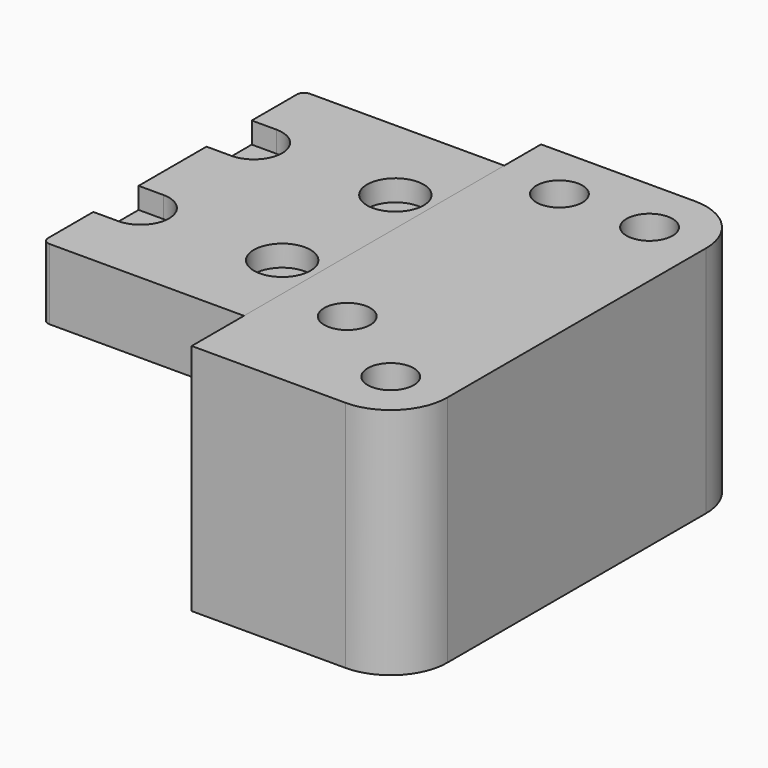
from build123d import *

# Parameters (mm, degrees)
SKETCH_W        = 28.5
SKETCH_H        = 46
PAD_DEPTH       = 20
FILLET_R        = 1
SKETCH001_R     = 1.6
POCKET_DEPTH    = 20.001
SKETCH002_W     = 27
SKETCH002_H     = 46
POCKET001_DEPTH = 10
SKETCH003_R     = 4
POCKET002_DEPTH = 3
SKETCH004_W     = 29.74
SKETCH004_H     = 61.74
PAD001_DEPTH    = 33
SKETCH005_R     = 2.525
POCKET003_DEPTH = 33.001
SKETCH006_R     = 3.25
POCKET004_DEPTH = 8
FILLET001_R     = 8


with BuildPart() as block_mount_12_template:
    # Sketch → Pad (new body)
    with BuildSketch(Plane.XY):
        with Locations((-14.25, 0)):
            Rectangle(SKETCH_W, SKETCH_H)
    extrude(amount=PAD_DEPTH)

    # Fillet
    fillet_edges = [block_mount_12_template.edges().sort_by_distance(p)[0] for p in [
        (-28.5, 23, 10),
        (-28.5, -23, 10),
    ]]
    fillet(fillet_edges, radius=FILLET_R)

    # Sketch001 (on Face5 of Fillet) → Pocket (cut, through all)
    with BuildSketch(Plane.XY.offset(20)):
        with Locations((-25, 10)):
            Circle(SKETCH001_R)
        with Locations((-5, 10)):
            Circle(SKETCH001_R)
        with Locations((-25, -10)):
            Circle(SKETCH001_R)
        with Locations((-5, -10)):
            Circle(SKETCH001_R)
    extrude(amount=-POCKET_DEPTH, mode=Mode.SUBTRACT)

    # Sketch002 (on Face2 of Pocket) → Pocket001 (cut)
    with BuildSketch(Plane(origin=(0, 0, 0), x_dir=(1, 0, 0), z_dir=(0, 0, -1))):
        with Locations((-15, 0)):
            Rectangle(SKETCH002_W, SKETCH002_H)
    extrude(amount=-POCKET001_DEPTH, mode=Mode.SUBTRACT)

    # Sketch003 (on Face4 of Pocket001) → Pocket002 (cut)
    with BuildSketch(Plane.XY.offset(20)):
        with Locations((-5, 10)):
            Circle(SKETCH003_R)
        with Locations((-5, -10)):
            Circle(SKETCH003_R)
        with BuildLine():
            ThreePointArc((-25, -14), (-21, -10), (-25, -6))
            Line((-25, -6), (-28.5, -6))
            Line((-28.5, -6), (-28.5, -14))
            Line((-28.5, -14), (-25, -14))
        make_face()
        with BuildLine():
            ThreePointArc((-25, 6), (-21, 10), (-25, 14))
            Line((-25, 14), (-28.5, 14))
            Line((-28.5, 14), (-28.5, 6))
            Line((-28.5, 6), (-25, 6))
        make_face()
    extrude(amount=-POCKET002_DEPTH, mode=Mode.SUBTRACT)


with BuildPart() as block_mount_12_template_1:
    # Body placement: moved
    add(block_mount_12_template.part.moved(Location((0, 0, 13))))


with BuildPart() as body_template:
    # Sketch004 → Pad001 (new body)
    with BuildSketch(Plane.XY):
        with Locations((14.87, -1.37)):
            Rectangle(SKETCH004_W, SKETCH004_H)
    extrude(amount=PAD001_DEPTH)

    # Sketch005 (on Face6 of Pad001) → Pocket003 (cut, through all)
    with BuildSketch(Plane.XY.offset(33)):
        with Locations((9, 21.5)):
            Circle(SKETCH005_R)
        with Locations((21.74, -24.24)):
            Circle(SKETCH005_R)
        with Locations((21.74, 21.5)):
            Circle(SKETCH005_R)
        with Locations((9, -16)):
            Circle(SKETCH005_R)
    extrude(amount=-POCKET003_DEPTH, mode=Mode.SUBTRACT)

    # Sketch006 (on Face5 of Pocket003) → Pocket004 (cut)
    with BuildSketch(Plane.XY.offset(33)):
        with Locations((21.74, 21.5)):
            Circle(SKETCH006_R)
        with Locations((9, 21.5)):
            Circle(SKETCH006_R)
        with Locations((9, -16)):
            Circle(SKETCH006_R)
        with Locations((21.74, -24.24)):
            Circle(SKETCH006_R)
    extrude(amount=-POCKET004_DEPTH, mode=Mode.SUBTRACT)

    # Fillet001
    fillet001_edges = [body_template.edges().sort_by_distance(p)[0] for p in [
        (29.74, -32.24, 16.5),
        (29.74, 29.5, 16.5),
    ]]
    fillet(fillet001_edges, radius=FILLET001_R)


solid = Compound([block_mount_12_template_1.part, body_template.part])
